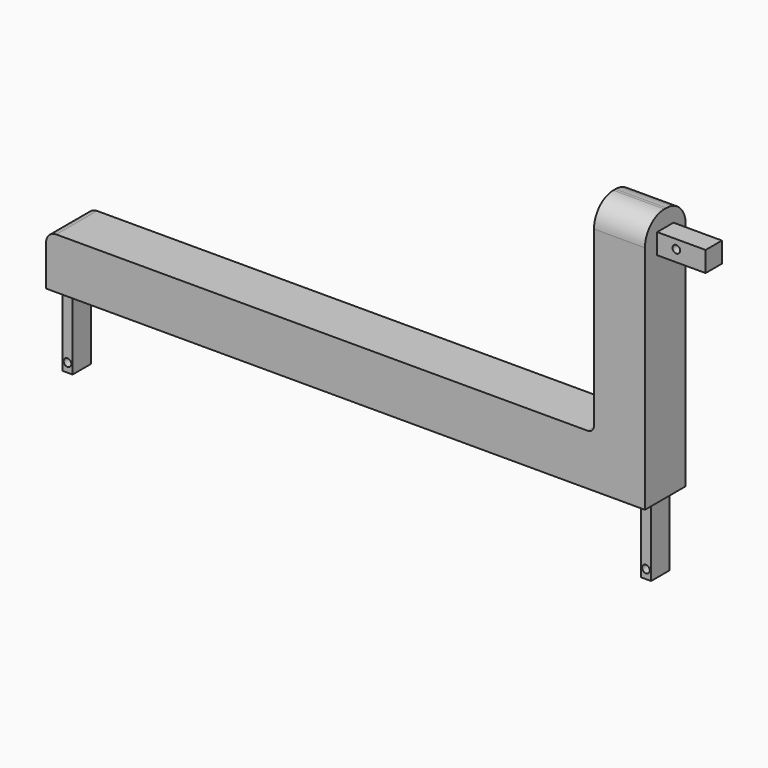
from build123d import *

# Parameters (mm, degrees)
CYLINDER178_R          = 3
CYLINDER178_DEPTH      = 60
CYLINDER178_ROLL_ANGLE = 90
BOX109_W               = 38
BOX109_H               = 16
BOX109_DEPTH           = 16
BOX107_W               = 40
BOX107_H               = 40
BOX107_DEPTH           = 200
CYLINDER180_R          = 3
CYLINDER180_DEPTH      = 60
CYLINDER180_ROLL_ANGLE = 90
BOX110_W               = 8
BOX110_H               = 18
BOX110_DEPTH           = 60
CYLINDER179_R          = 3
CYLINDER179_DEPTH      = 60
CYLINDER179_ROLL_ANGLE = 90
BOX105_W               = 8
BOX105_H               = 18
BOX105_DEPTH           = 60
BOX106_W               = 470
BOX106_H               = 40
BOX106_DEPTH           = 40
FILLET_R               = 19
FILLET001_R            = 5
FILLET002_R            = 8


with BuildPart() as cilindro102:
    # Cylinder178 → Cylinder178 (new body)
    with BuildSketch(Plane.XY):
        Circle(CYLINDER178_R)
    extrude(amount=CYLINDER178_DEPTH)


with BuildPart() as cilindro102_1:
    # Cylinder178 roll: moved
    add(cilindro102.part.rotate(Axis((0, 0, 0), (1, 0, 0)), CYLINDER178_ROLL_ANGLE))


with BuildPart() as cilindro102_2:
    # Cylinder178 placement: moved
    add(cilindro102_1.part.moved(Location((5, 37, 765))))


with BuildPart() as cubo075:
    # Box109 → Box109 (new body)
    with BuildSketch(Plane(origin=(-10, -8, 756), x_dir=(1, 0, 0), z_dir=(0, 0, 1))):
        with Locations((19, 8)):
            Rectangle(BOX109_W, BOX109_H)
    extrude(amount=BOX109_DEPTH)


with BuildPart() as cut001:
    # Box107 → Box107 (new body)
    with BuildSketch(Plane(origin=(-50, -20, 585), x_dir=(1, 0, 0), z_dir=(0, 0, 1))):
        with Locations((20, 20)):
            Rectangle(BOX107_W, BOX107_H)
    extrude(amount=BOX107_DEPTH)

    # Fusion054: union Cubo075
    add(cubo075.part)

    # Cut220: cut Cilindro102
    add(cilindro102_2.part, mode=Mode.SUBTRACT)


with BuildPart() as cilindro104:
    # Cylinder180 → Cylinder180 (new body)
    with BuildSketch(Plane.XY):
        Circle(CYLINDER180_R)
    extrude(amount=CYLINDER180_DEPTH)


with BuildPart() as cilindro104_1:
    # Cylinder180 roll: moved
    add(cilindro104.part.rotate(Axis((0, 0, 0), (1, 0, 0)), CYLINDER180_ROLL_ANGLE))


with BuildPart() as cilindro104_2:
    # Cylinder180 placement: moved
    add(cilindro104_1.part.moved(Location((-18, 30, 532))))


with BuildPart() as obj1:
    # Box110 → Box110 (new body)
    with BuildSketch(Plane(origin=(-22, -9, 525), x_dir=(1, 0, 0), z_dir=(0, 0, 1))):
        with Locations((4, 9)):
            Rectangle(BOX110_W, BOX110_H)
    extrude(amount=BOX110_DEPTH)

    # Cut222: cut Cilindro104
    add(cilindro104_2.part, mode=Mode.SUBTRACT)


with BuildPart() as obj1_1:
    # Cut222 placement: moved
    add(obj1.part.moved(Location((-454, 0, 0))))


with BuildPart() as cilindro103:
    # Cylinder179 → Cylinder179 (new body)
    with BuildSketch(Plane.XY):
        Circle(CYLINDER179_R)
    extrude(amount=CYLINDER179_DEPTH)


with BuildPart() as cilindro103_1:
    # Cylinder179 roll: moved
    add(cilindro103.part.rotate(Axis((0, 0, 0), (1, 0, 0)), CYLINDER179_ROLL_ANGLE))


with BuildPart() as cilindro103_2:
    # Cylinder179 placement: moved
    add(cilindro103_1.part.moved(Location((-18, 30, 532))))


with BuildPart() as cut221:
    # Box105 → Box105 (new body)
    with BuildSketch(Plane(origin=(-22, -9, 525), x_dir=(1, 0, 0), z_dir=(0, 0, 1))):
        with Locations((4, 9)):
            Rectangle(BOX105_W, BOX105_H)
    extrude(amount=BOX105_DEPTH)

    # Cut221: cut Cilindro103
    add(cilindro103_2.part, mode=Mode.SUBTRACT)


with BuildPart() as cut221_1:
    # Cut221 placement: moved
    add(cut221.part.moved(Location((0, 0, 5))))


with BuildPart() as fillet002:
    # Box106 → Box106 (new body)
    with BuildSketch(Plane(origin=(-480, -20, 585), x_dir=(1, 0, 0), z_dir=(0, 0, 1))):
        with Locations((235, 20)):
            Rectangle(BOX106_W, BOX106_H)
    extrude(amount=BOX106_DEPTH)

    # Fusion055: union obj1, Cut221
    add(obj1_1.part)
    add(cut221_1.part)

    # Fusion059: union cut001
    add(cut001.part)


with BuildPart() as fillet002_1:
    # Fusion059 placement: moved
    add(fillet002.part.moved(Location((0, 460, 0))))

    # Fillet
    fillet_edges = [fillet002_1.edges().sort_by_distance(p)[0] for p in [
        (-30, 480, 785),
        (-30, 440, 785),
    ]]
    fillet(fillet_edges, radius=FILLET_R)

    # Fillet001
    fillet001_edges = [fillet002_1.edges().sort_by_distance(p)[0] for p in [
        (-50, 460, 625),
    ]]
    fillet(fillet001_edges, radius=FILLET001_R)

    # Fillet002
    fillet002_edges = [fillet002_1.edges().sort_by_distance(p)[0] for p in [
        (-480, 460, 625),
    ]]
    fillet(fillet002_edges, radius=FILLET002_R)


solid = fillet002_1.part
